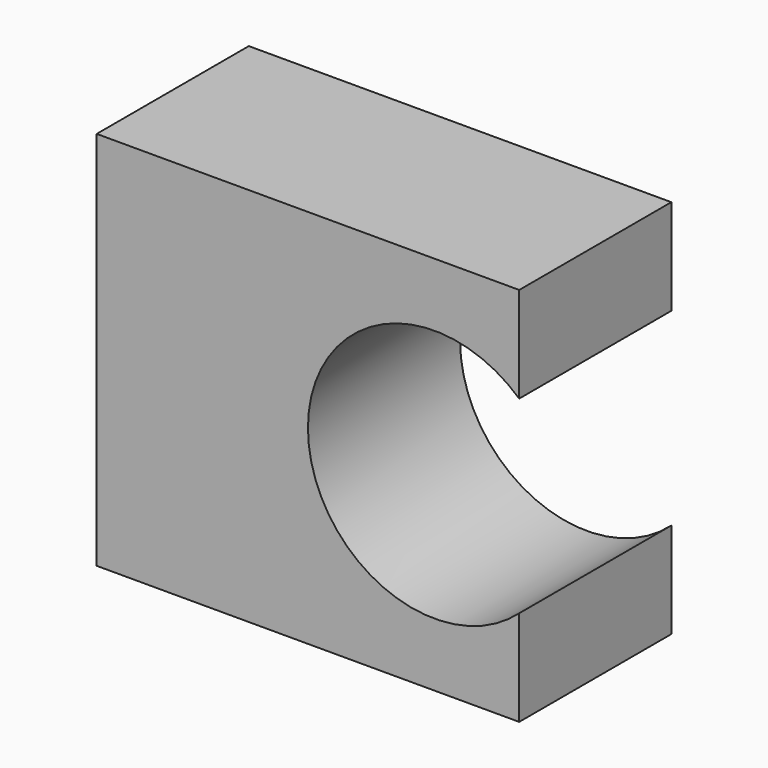
from build123d import *

# Parameters (mm, degrees)
F0_W     = 9
F0_H     = 18
F1_DEPTH = 20
F2_R     = 6
F3_DEPTH = 25


with BuildPart() as f1:
    # F0 (on Right) → F1 (new body)
    with BuildSketch(Plane.YZ):
        Rectangle(F0_W, F0_H)
    extrude(amount=F1_DEPTH)

    # F2 (on face) → F3 (cut)
    with BuildSketch(Plane.XZ.offset(4.5)):
        with Locations((16, 0)):
            Circle(F2_R)
    extrude(amount=-F3_DEPTH, mode=Mode.SUBTRACT)


solid = f1.part
